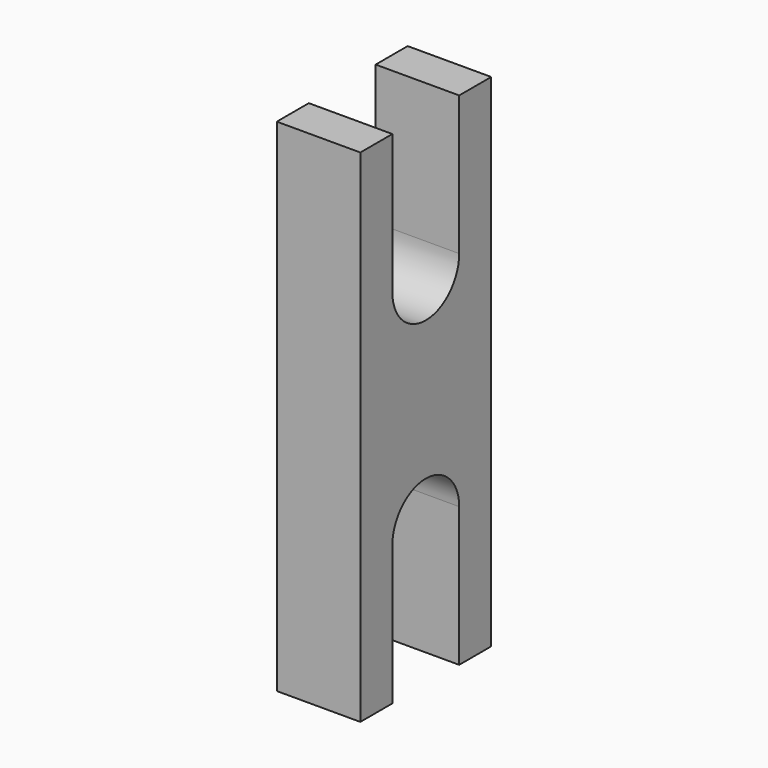
from build123d import *

# Parameters (mm, degrees)
F1_DEPTH = 12.7


with BuildPart() as f1:
    # F0 (on Right) → F1 (new body)
    with BuildSketch(Plane.YZ):
        with BuildLine():
            Line((6.35, -24.606245), (12.435416, -24.606245))
            Line((12.435416, -24.606245), (12.435416, 51.593755))
            Line((12.435416, 51.593755), (6.35, 51.593755))
            Line((6.35, 51.593755), (6.35, 30.427093))
            ThreePointArc((6.35, 30.427093), (0, 24.077093), (-6.35, 30.427093))
            Line((-6.35, 30.427093), (-6.35, 51.593755))
            Line((-6.35, 51.593755), (-12.435416, 51.593755))
            Line((-12.435416, 51.593755), (-12.435416, -24.606245))
            Line((-12.435416, -24.606245), (-6.35, -24.606245))
            Line((-6.35, -24.606245), (-6.35, -3.439584))
            ThreePointArc((-6.35, -3.439584), (0, 2.910416), (6.35, -3.439584))
            Line((6.35, -3.439584), (6.35, -24.606245))
        make_face()
    extrude(amount=F1_DEPTH)


solid = f1.part
